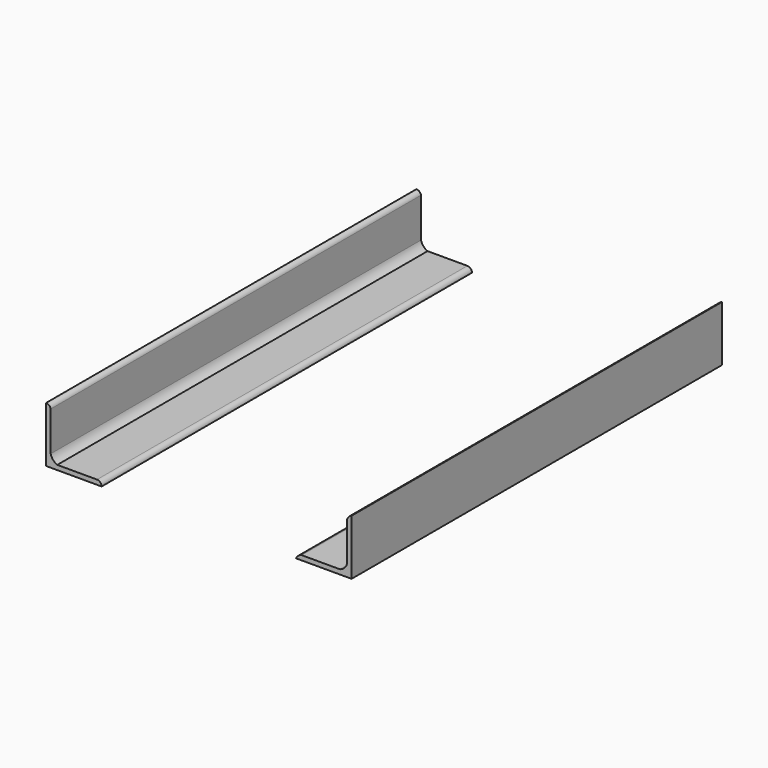
from build123d import *

# Parameters (mm, degrees)
F1_DEPTH = 317.5


with BuildPart() as f1:
    # F0 (on Front) → F1 (new body)
    with BuildSketch(Plane.XZ):
        with BuildLine():
            Line((-41.275, 3.175), (-41.275, 0))
            Line((-41.275, 0), (-38.1, 0))
            Line((-38.1, 0), (-3.175, 0))
            ThreePointArc((-3.175, 0), (-4.103204, 2.243332), (-6.3451, 3.175))
            Line((-6.3451, 3.175), (-33.609413, 3.175))
            ThreePointArc((-33.609413, 3.175), (-36.467389, 5.244143), (-38.1, 8.372077))
            Line((-38.1, 8.372077), (-38.1, 35.5189))
            ThreePointArc((-38.1, 35.5189), (-39.229108, 37.373316), (-41.275, 38.1))
            Line((-41.275, 38.1), (-41.275, 3.175))
        make_face()
        with BuildLine():
            ThreePointArc((134.079143, 3.175), (131.739379, 2.064227), (130.175, 0))
            Line((130.175, 0), (165.1, 0))
            Line((165.1, 0), (168.275, 0))
            Line((168.275, 0), (168.275, 3.175))
            Line((168.275, 3.175), (168.275, 38.1))
            ThreePointArc((168.275, 38.1), (166.080427, 36.571134), (165.1, 34.082692))
            Line((165.1, 34.082692), (165.1, 7.956357))
            ThreePointArc((165.1, 7.956357), (163.293281, 4.901976), (160.193115, 3.175))
            Line((160.193115, 3.175), (134.079143, 3.175))
        make_face()
    extrude(amount=F1_DEPTH)


solid = f1.part
